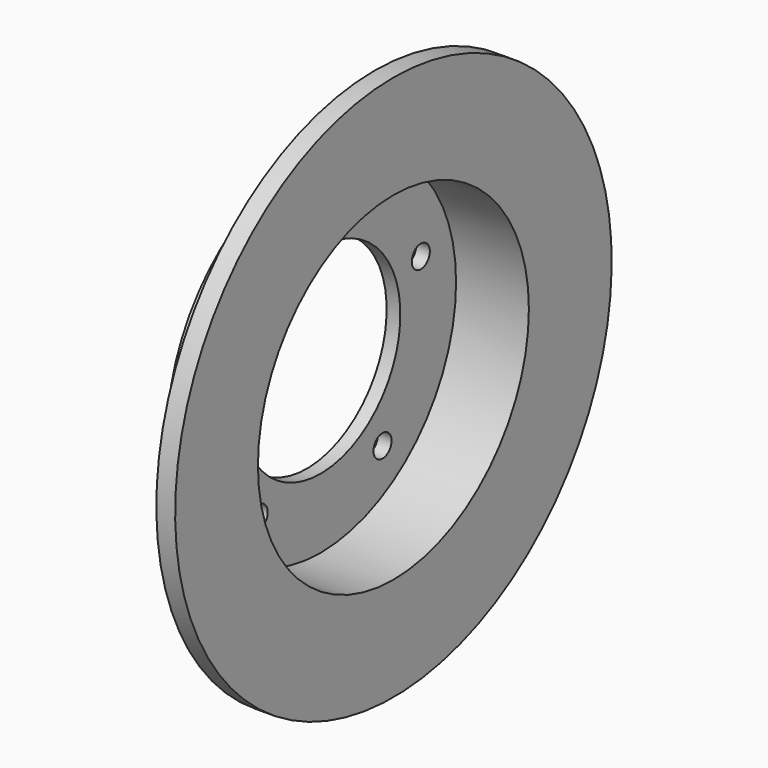
from build123d import *

# Parameters (mm, degrees)
F0_W     = 7.3
F0_H     = 90
F2_R     = 53
F2_R_2   = 6
F3_DEPTH = 7.3


with BuildPart() as f1:
    # F0 (on Front) → F1 (revolve)
    with BuildSketch(Plane.XZ):
        with Locations((-42.35, 45)):
            Rectangle(F0_W, F0_H)
        Polygon((-10, 90), (-10, 93), (-46, 93), (-46, 90), (-38.7, 90), align=None)
        Polygon((0, 90), (0, 145), (-10, 145), (-10, 93), (-10, 90), align=None)
    revolve(axis=Axis((-19.35, 0, 0), (1, 0, 0)))

    # F2 (on face) → F3 (cut)
    with BuildSketch(Plane(origin=(-46, 0, 0), x_dir=(0, -1, 0), z_dir=(-1, 0, 0))):
        Circle(F2_R)
        with Locations((0, 70)):
            Circle(F2_R_2)
        with Locations((-66.573956, 21.63119)):
            Circle(F2_R_2)
        with Locations((-41.144968, -56.63119)):
            Circle(F2_R_2)
        with Locations((41.144968, -56.63119)):
            Circle(F2_R_2)
        with Locations((66.573956, 21.63119)):
            Circle(F2_R_2)
    extrude(amount=-F3_DEPTH, mode=Mode.SUBTRACT)


solid = f1.part
